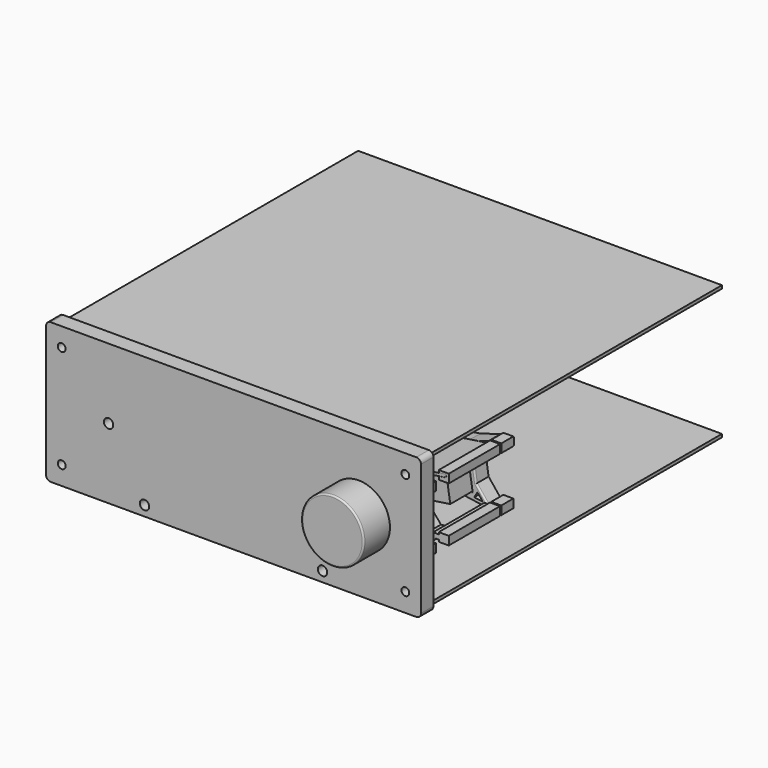
from build123d import *

# Parameters (mm, degrees)
SKETCH_W        = 240
SKETCH_H        = 90
SKETCH_R        = 2.5
PAD_DEPTH       = 10
FILLET_R        = 3
SKETCH001_R     = 3
HOLE_DEPTH      = 25
PAD001_DEPTH    = 41
SKETCH003_R     = 1
PAD002_DEPTH    = 0.5
PAD003_DEPTH    = 41
SKETCH010_W     = 27.1
SKETCH010_H     = 28.212157
PAD005_DEPTH    = 27.4
SKETCH014_R     = 3
PAD010_DEPTH    = 63
PAD004_DEPTH    = 41
SKETCH008_W     = 7
SKETCH008_H     = 11.5
SKETCH008_W_2   = 7.0000000001
SKETCH008_H_2   = 11.4999999999
SKETCH008_H_3   = 11.4999999998
POCKET_DEPTH    = 17.3775409576
SKETCH009_W     = 7.4882226249
SKETCH009_H     = 11.5
POCKET001_DEPTH = 24.9901347949
PAD006_DEPTH    = 10
PAD007_DEPTH    = 10
FILLET002_R     = 1
FILLET003_R     = 0.5
SKETCH012_R     = 20
PAD008_DEPTH    = 21
FILLET001_R     = 1
PAD009_DEPTH    = 233
SKETCH015_R     = 13.05
PAD011_DEPTH    = 9
FILLET004_R     = 0.5
SKETCH016_R     = 5.05
SKETCH016_R_2   = 3.15
PAD012_DEPTH    = 9
FILLET005_R     = 0.75


with BuildPart() as front_plate:
    # Sketch → Pad (new body)
    with BuildSketch(Plane.XZ):
        Rectangle(SKETCH_W, SKETCH_H)
        with Locations((-110, 33)):
            Circle(SKETCH_R, mode=Mode.SUBTRACT)
        with Locations((110, 33)):
            Circle(SKETCH_R, mode=Mode.SUBTRACT)
        with Locations((-110, -33)):
            Circle(SKETCH_R, mode=Mode.SUBTRACT)
        with Locations((110, -33)):
            Circle(SKETCH_R, mode=Mode.SUBTRACT)
    extrude(amount=PAD_DEPTH)

    # Fillet
    fillet_edges = [front_plate.edges().sort_by_distance(p)[0] for p in [
        (-120, -5, 45),
        (-120, -5, -45),
        (120, -5, 45),
        (120, -5, -45),
    ]]
    fillet(fillet_edges, radius=FILLET_R)

    # Sketch001 (on Face2 of Fillet) → Hole (cut)
    with BuildSketch(Plane(origin=(0, 0, 0), x_dir=(1, 0, 0), z_dir=(0, 1, 0))):
        with Locations((-80, 0)):
            Circle(SKETCH001_R)
        with Locations((80, 0)):
            Circle(SKETCH001_R)
        with Locations((-57, 38.5)):
            Circle(SKETCH001_R)
        with Locations((57, 38.5)):
            Circle(SKETCH001_R)
    extrude(amount=-HOLE_DEPTH, mode=Mode.SUBTRACT)


with BuildPart() as pcb_holder_upper:
    # Sketch002 → Pad001 (new body)
    with BuildSketch(Plane.XZ):
        Polygon((105.0313334972, 18.7111066781), (105.0313334972, 20.5111066781), (111.4313334972, 20.5111066781), (111.4313334972, 15.0111066781), (105.0313334972, 15.0111066781), (105.0313334972, 17.0111066781), (109.9313334972, 17.7469142022), (109.6460825494, 19.4735096663), align=None)
    extrude(amount=PAD001_DEPTH)

    # Sketch003 (on DatumPlane) → Pad002 (join)
    with BuildSketch(Plane(origin=(-0.2185347781, 0, 1.3227691596), x_dir=(0.9866259795, 0, 0.1630005416), z_dir=(0.1630005416, 0, -0.9866259795))):
        with Locations((108.5538662169, 38.5)):
            Circle(SKETCH003_R)
        with Locations((108.5538662169, 2.5)):
            Circle(SKETCH003_R)
    extrude(amount=PAD002_DEPTH)


with BuildPart() as pcb_holder_upper_1:
    # Body003 placement: moved
    add(pcb_holder_upper.part.moved(Location((0, 64, 0))))


with BuildPart() as pcb:
    # Sketch004 → Pad003 (new body)
    with BuildSketch(Plane.XZ):
        Polygon((49.314667548, 10.350253206), (49.5874853972, 8.571048209), (109.8827658494, 17.816541987), (109.6099480002, 19.5957469839), align=None)
    extrude(amount=PAD003_DEPTH)

    # Sketch010 (on DatumPlane) → Pad005 (join)
    with BuildSketch(Plane(origin=(-0.1449387506, 0, 0.9452304904), x_dir=(0.9884472205, 0, 0.1515654718), z_dir=(0.1515654718, 0, -0.9884472205))):
        with Locations((76.4110757251, 2.6060785)):
            Rectangle(SKETCH010_W, SKETCH010_H)
    extrude(amount=PAD005_DEPTH)

    # Sketch014 (on DatumPlane) → Pad010 (join)
    with BuildSketch(Plane.XZ.offset(16.712157)):
        with Locations((77.6871718382, -2.4978865209)):
            Circle(SKETCH014_R)
    extrude(amount=PAD010_DEPTH)


with BuildPart() as pcb_1:
    # Body004 placement: moved
    add(pcb.part.moved(Location((0, 64, 0))))


with BuildPart() as obj1:
    # Sketch007 → Pad004 (new body)
    with BuildSketch(Plane.XZ):
        Polygon((105, -15.75), (105, -14.5), (111.4, -14.5), (111.4, -20), (105, -20), (105, -18.75), (103.174393, -18.75), (78.024887, -40), (70.912872, -40), (57.091118, -20.89253), (52.060566, -0.840481), (47.321018, 5.571844), (46.780822, 13.100033), (46.780822, 41.5), (55.868893, 41.5), (49.923126, 36.91613), (49.923126, 13.285219), (54.2463393842, 13.1843194786), (54.9349852584, 11.3066169303), (49.5974679528, 10.2856218272), (49.9168640944, 8.615895471), (54.8278239657, 9.5552958875), (54.8278239657, 7.5552958875), (49.737263, 6.222372), (53.175755, 2.412147), (59.447975, -20.476612), (73.622223, -37.115627), (76.162216, -36.946297), (101.424103, -15.75), align=None)
    extrude(amount=PAD004_DEPTH)

    # Sketch008 (on DatumPlane) → Pocket (cut, through all)
    with BuildSketch(Plane(origin=(50.0763831747, 0, 13.7224605351), x_dir=(-0.2642871622, 0, 0.9644440346), z_dir=(0.9644440346, 0, 0.2642871622))):
        with Locations((-25.9598829045, 29.25)):
            Rectangle(SKETCH008_W, SKETCH008_H)
        with Locations((-12.9598829045, 11.75)):
            Rectangle(SKETCH008_W_2, SKETCH008_H_2)
        with Locations((-25.9598829045, 11.75)):
            Rectangle(SKETCH008_W_2, SKETCH008_H)
        with Locations((-12.9598829045, 29.2500000001)):
            Rectangle(SKETCH008_W, SKETCH008_H_3)
    extrude(amount=-POCKET_DEPTH, mode=Mode.SUBTRACT)

    # Sketch009 (on DatumPlane) → Pocket001 (cut, through all)
    with BuildSketch(Plane(origin=(49.6591091256, 0, -59.1840548022), x_dir=(-0.7660585248, 0, -0.6427708275), z_dir=(-0.6427708275, 0, 0.7660585248))):
        with Locations((-57.8290468746, 29.25)):
            Rectangle(SKETCH009_W, SKETCH009_H)
        with Locations((-44.3408242497, 29.25)):
            Rectangle(SKETCH009_W, SKETCH009_H)
        with Locations((-57.8290468746, 11.75)):
            Rectangle(SKETCH009_W, SKETCH009_H)
        with Locations((-44.3408242497, 11.75)):
            Rectangle(SKETCH009_W, SKETCH009_H)
    extrude(amount=-POCKET001_DEPTH, mode=Mode.SUBTRACT)


with BuildPart() as obj1_1:
    # Body005 placement: moved
    add(obj1.part.moved(Location((0, 64, 0))))


with BuildPart() as potentiometer_holder:
    # Sketch011 → Pad006 (new body)
    with BuildSketch(Plane.XZ):
        Polygon((105.0313334972, 18.7111066781), (105.0313334972, 20.5111066781), (111.4313334972, 20.5111066781), (111.4313334972, 15.0111066781), (105.0313334972, 15.0111066781), (105.0313334972, 17.0111066781), (103.1210644747, 17.0111066781), (92.4785774965, 10.8922092945), (95.2963893992, -7.4843926493), (102.6782012686, -16.6648314837), (105, -16.6648314837), (105, -14.5), (111.4, -14.5), (111.4, -20), (105, -20), (105, -18.75), (103.426036014, -18.75), (87.4167280975, -16.4848095739), (63.5484773345, -20.1446940999), (58.8878390775, 10.2500579313), (90.012267137, 15.0225824773), (103.0854959402, 19.0371022974), align=None)
        Polygon((62.3078771544, 7.739412685), (66.0591225807, -16.724656023), (93.0437317011, -12.5869186437), (89.2924862748, 11.8771500643), align=None, mode=Mode.SUBTRACT)
        Polygon((91.818718, 14.499601), (100.143293307, 17.0559069491), (92.1329429012, 12.4503563631), align=None, mode=Mode.SUBTRACT)
        Polygon((99.5813166567, -16.2379374385), (94.1024317294, -15.4627185629), (96.197259036, -12.0293319434), align=None, mode=Mode.SUBTRACT)
    extrude(amount=PAD006_DEPTH)

    # Sketch011 → Pad007 (join)
    with BuildSketch(Plane.XZ):
        Polygon((105.0313334972, 18.7111066781), (105.0313334972, 20.5111066781), (111.4313334972, 20.5111066781), (111.4313334972, 15.0111066781), (105.0313334972, 15.0111066781), (105.0313334972, 17.0111066781), (103.1210644747, 17.0111066781), (92.4785774965, 10.8922092945), (95.2963893992, -7.4843926493), (102.6782012686, -16.6648314837), (105, -16.6648314837), (105, -14.5), (111.4, -14.5), (111.4, -20), (105, -20), (105, -18.75), (103.426036014, -18.75), (87.4167280975, -16.4848095739), (63.5484773345, -20.1446940999), (58.8878390775, 10.2500579313), (90.012267137, 15.0225824773), (103.0854959402, 19.0371022974), align=None)
        Polygon((62.3078771544, 7.739412685), (66.0591225807, -16.724656023), (93.0437317011, -12.5869186437), (89.2924862748, 11.8771500643), align=None, mode=Mode.SUBTRACT)
        Polygon((91.818718, 14.499601), (100.143293307, 17.0559069491), (92.1329429012, 12.4503563631), align=None, mode=Mode.SUBTRACT)
        Polygon((99.5813166567, -16.2379374385), (94.1024317294, -15.4627185629), (96.197259036, -12.0293319434), align=None, mode=Mode.SUBTRACT)
    extrude(amount=PAD007_DEPTH)

    # Fillet002
    fillet002_edges = [potentiometer_holder.edges().sort_by_distance(p)[0] for p in [
        (98.987295, -10, -12.074612),
        (93.887483, -10, 1.703908),
        (79.551427, -10, -14.655787),
        (64.1835, -10, -4.492622),
    ]]
    fillet(fillet002_edges, radius=FILLET002_R)

    # Fillet003
    fillet003_edges = [potentiometer_holder.edges().sort_by_distance(p)[0] for p in [
        (108.231333, 0, 15.011107),
        (108.231333, 0, 20.511107),
        (108.2, 0, -14.5),
        (108.2, 0, -20),
        (111.4, 0, -17.25),
    ]]
    fillet(fillet003_edges, radius=FILLET003_R)


with BuildPart() as potentiometer_holder_1:
    # Body006 placement: moved
    add(potentiometer_holder.part.moved(Location((0, 75, 0))))


with BuildPart() as knob:
    # Sketch012 (on DatumPlane) → Pad008 (new body)
    with BuildSketch(Plane.XZ.offset(10)):
        with Locations((80.148361, 0)):
            Circle(SKETCH012_R)
    extrude(amount=PAD008_DEPTH)

    # Fillet001
    fillet001_edges = [knob.edges().sort_by_distance(p)[0] for p in [
        (60.148361, -31, 0),
    ]]
    fillet(fillet001_edges, radius=FILLET001_R)


with BuildPart() as enclosure:
    # Sketch013 (on DatumPlane) → Pad009 (new body)
    with BuildSketch(Plane(origin=(0, 0, 0), x_dir=(1, 0, 0), z_dir=(0, 1, 0))):
        Polygon((118.2719540001, 42.189038), (-114.6291526841, 42.189038), (-114.6291526841, -43.610012), (118.2719540001, -43.610012), (118.2719540001, -41.610012), (-104.6291526841, -41.610012), (-104.6291526841, 40.189038), (118.2719540001, 40.189038), align=None)
    extrude(amount=PAD009_DEPTH)


with BuildPart() as bearing_holder:
    # Sketch015 (on DatumPlane) → Pad011 (new body)
    with BuildSketch(Plane.XZ.offset(41)):
        Polygon((105.0313334972, 18.7111066781), (105.0313334972, 20.5111066781), (111.4313334972, 20.5111066781), (111.4313334972, 15.0111066781), (105.0313334972, 15.0111066781), (105.0313334972, 17.0111066781), (101.0313334972, 17.0111066781), (95, 8.5416305603), (95, -5.5416305603), (101.0313334972, -16.6648314837), (105, -16.6648314837), (105, -14.5), (111.4, -14.5), (111.4, -20), (105, -20), (105, -18.75), (101.0313334972, -18.75), (86.8093975133, -13.732233047), (85.0416305603, -15.5), (70.9583694397, -15.5), (61, -5.5416305603), (61, 8.5416305603), (70.9583694397, 18.5), (85.0416305603, 18.5), (86.8093975133, 16.732233047), (101.0313334972, 18.7111066781), align=None)
        with Locations((78, 1.5)):
            Circle(SKETCH015_R, mode=Mode.SUBTRACT)
        Polygon((96.0203768559, -13.6515649352), (92.8102663034, -7.7313642569), (89.2712756737, -11.2703548867), align=None, mode=Mode.SUBTRACT)
        Polygon((95.9968937589, 15.2061732096), (92.8102663034, 10.7313642569), (89.2712756737, 14.2703548867), align=None, mode=Mode.SUBTRACT)
    extrude(amount=PAD011_DEPTH)

    # Fillet004
    fillet004_edges = [bearing_holder.edges().sort_by_distance(p)[0] for p in [
        (64.95, -41, 1.5),
        (108.2, -41, -20),
        (108.2, -41, -14.5),
        (111.4, -41, -17.25),
        (108.231333, -41, 15.011107),
        (108.231333, -41, 20.511107),
        (111.431333, -41, 17.761107),
        (105.031333, -41, 19.611107),
        (105.031333, -41, 16.011107),
        (103.031333, -41, 18.711107),
        (103.031333, -41, 17.011107),
        (105, -41, -19.375),
        (103.015667, -41, -18.75),
        (105, -41, -15.582416),
        (103.015667, -41, -16.664831),
    ]]
    fillet(fillet004_edges, radius=FILLET004_R)


with BuildPart() as bearing_holder_1:
    # Body009 placement: moved
    add(bearing_holder.part.moved(Location((0, 54, 0))))


with BuildPart() as bearing_center_piece:
    # Sketch016 (on DatumPlane) → Pad012 (new body)
    with BuildSketch(Plane.XZ.offset(-0.287843)):
        with Locations((77.6871718382, -2.4978865209)):
            Circle(SKETCH016_R)
        with Locations((77.6871718382, -2.4978865209)):
            Circle(SKETCH016_R_2, mode=Mode.SUBTRACT)
    extrude(amount=PAD012_DEPTH)

    # Fillet005
    fillet005_edges = [bearing_center_piece.edges().sort_by_distance(p)[0] for p in [
        (74.537172, 0.287843, -2.497887),
        (72.637172, 0.287843, -2.497887),
        (72.637172, -8.712157, -2.497887),
        (74.537172, -8.712157, -2.497887),
    ]]
    fillet(fillet005_edges, radius=FILLET005_R)


solid = Compound([front_plate.part, pcb_holder_upper_1.part, pcb_1.part, obj1_1.part, potentiometer_holder_1.part, knob.part, enclosure.part, bearing_holder_1.part, bearing_center_piece.part])
